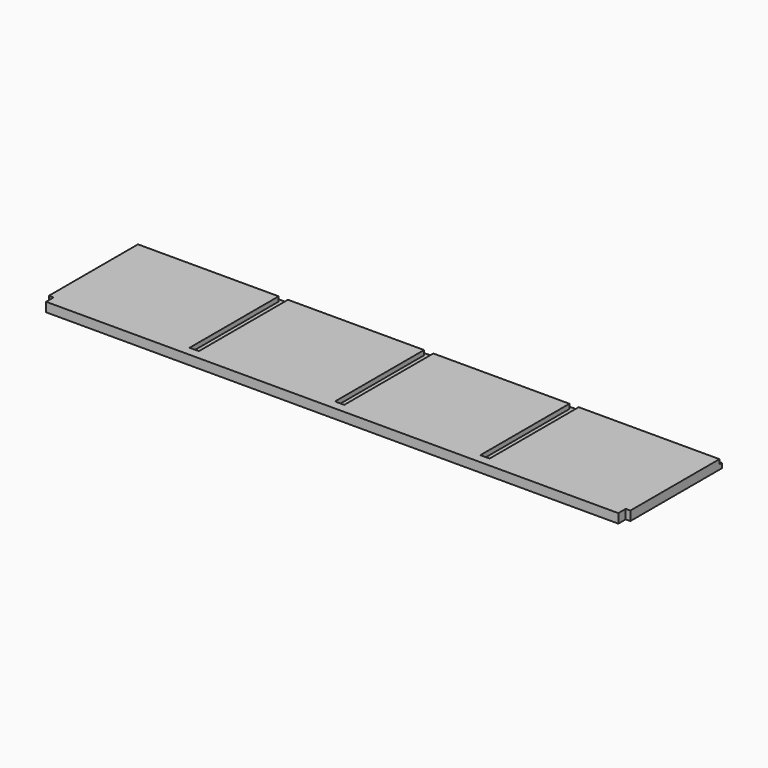
from build123d import *

# Parameters (mm, degrees)
F0_W     = 1193.8
F0_H     = 254
F1_DEPTH = 19.05
F2_W     = 19.05
F2_H     = 9.525
F3_DEPTH = 234.95
F4_W     = 1193.8
F4_H     = 6.35
F5_DEPTH = 9.525
F6_W     = 9.525
F6_H     = 19.05
F7_DEPTH = 25.4


with BuildPart() as f1:
    # F0 (on Top) → F1 (new body)
    with BuildSketch(Plane.XY):
        with Locations((596.9, 127)):
            Rectangle(F0_W, F0_H)
    extrude(amount=F1_DEPTH)

    # F2 (on face) → F3 (cut)
    with BuildSketch(Plane(origin=(0, 254, 0), x_dir=(-1, 0, 0), z_dir=(0, 1, 0))):
        with Locations((-298.45, 14.2875)):
            Rectangle(F2_W, F2_H)
        with Locations((-596.9, 14.2875)):
            Rectangle(F2_W, F2_H)
        with Locations((-895.35, 14.2875)):
            Rectangle(F2_W, F2_H)
    extrude(amount=-F3_DEPTH, mode=Mode.SUBTRACT)

    # F4 (on face) → F5 (cut)
    with BuildSketch(Plane.XY.offset(19.05)):
        with Locations((596.9, 250.825)):
            Rectangle(F4_W, F4_H)
    extrude(amount=-F5_DEPTH, mode=Mode.SUBTRACT)

    # F6 (on face) → F7 (cut)
    with BuildSketch(Plane.XY.offset(19.05)):
        with Locations((4.7625, 9.525)):
            Rectangle(F6_W, F6_H)
        with Locations((1189.0375, 9.525)):
            Rectangle(F6_W, F6_H)
    extrude(amount=-F7_DEPTH, mode=Mode.SUBTRACT)


solid = f1.part
